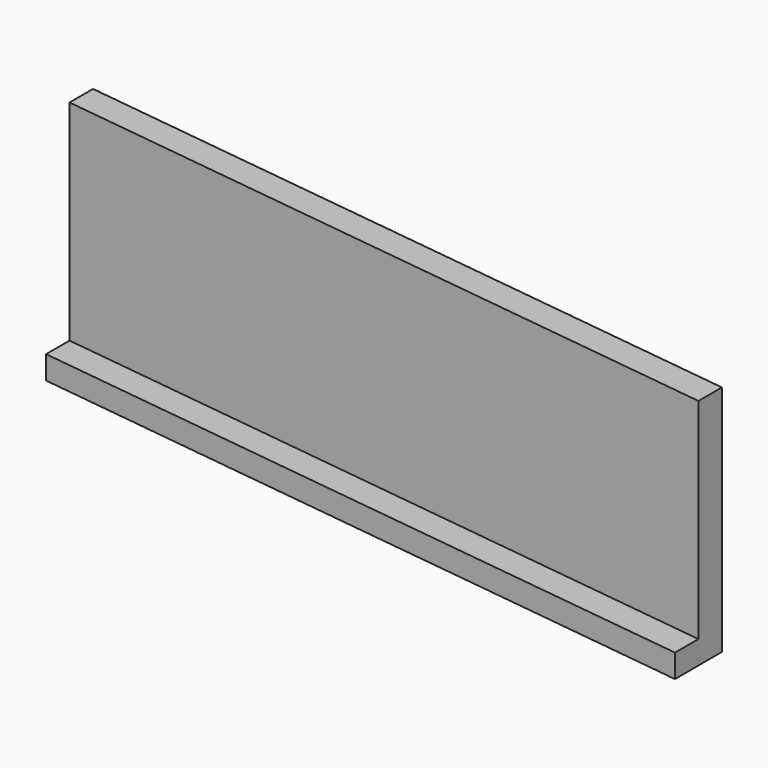
from build123d import *

# Parameters (mm, degrees)
F1_DEPTH = 40
F3_DEPTH = 4


with BuildPart() as f1:
    # F0 (on Top) → F1 (new body)
    with BuildSketch(Plane.XY):
        Polygon((120, -20.038911), (120, -15), (0, 0), (0, -5.038911), align=None)
    extrude(amount=F1_DEPTH)

    # F2 (on face) → F3 (join)
    with BuildSketch(Plane(origin=(0, 0, 0), x_dir=(1, 0, 0), z_dir=(0, 0, -1))):
        Polygon((0, 10.077822), (0, 5.038911), (120, 20.038911), (120, 25.077822), align=None)
    extrude(amount=-F3_DEPTH)


solid = f1.part
